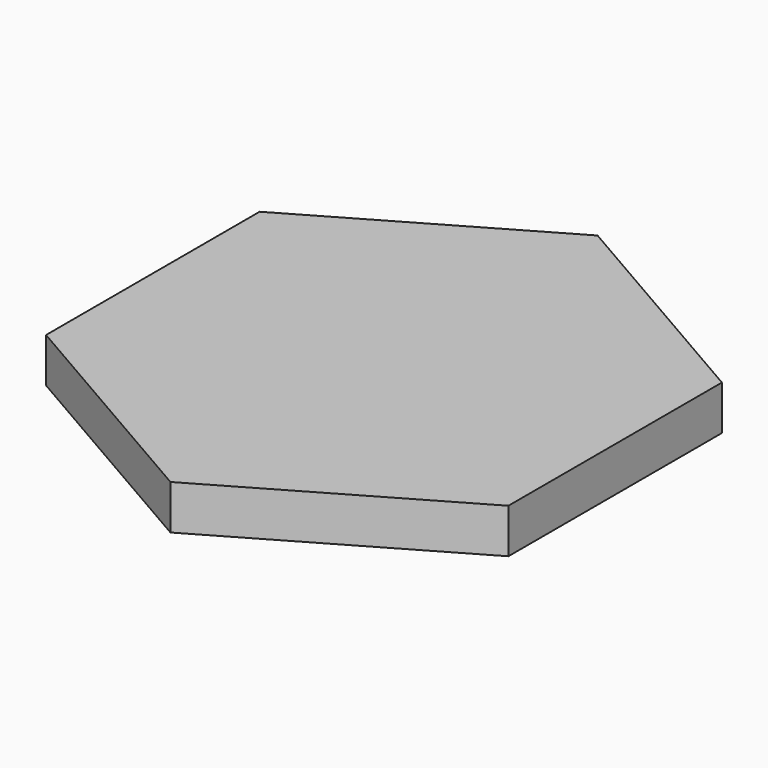
from build123d import *

# Parameters (mm, degrees)
PAD_DEPTH = 5


with BuildPart() as part:
    # Sketch → Pad (new body)
    with BuildSketch(Plane.XY):
        Polygon((25.980762, 15), (0, 30), (-25.980762, 15), (-25.980762, -15), (0, -30), (25.980762, -15), align=None)
    extrude(amount=PAD_DEPTH)


solid = part.part
